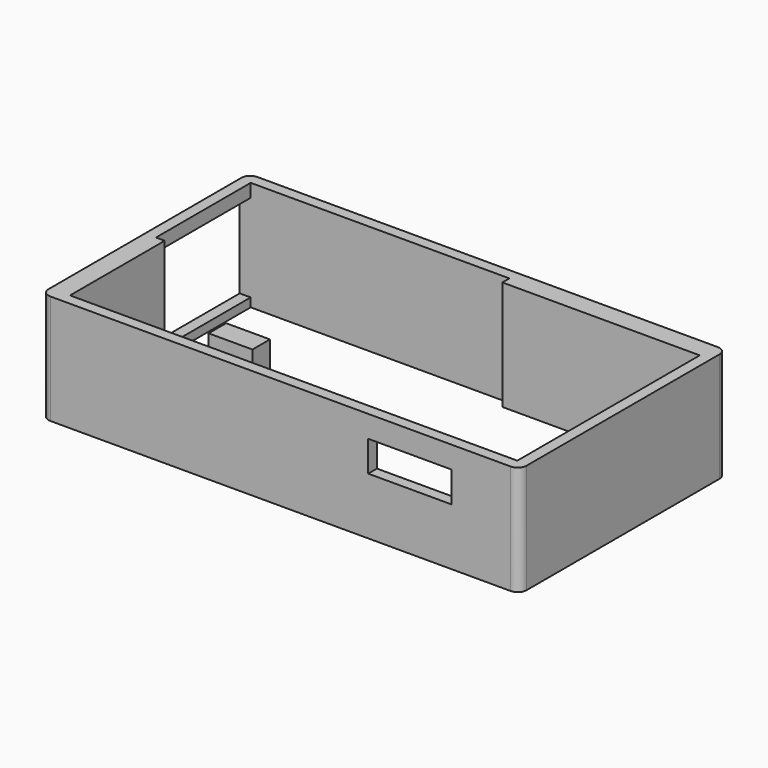
from build123d import *

# Parameters (mm, degrees)
F1_DEPTH  = 25
F2_W      = 19
F2_H      = 7
F3_DEPTH  = 2.5
F0_W      = 45
F0_H      = 2
F5_DEPTH  = 25
F0_W_2    = 2
F0_H_2    = 27
F6_DEPTH  = 25
F4_W      = 10
F4_H      = 5
F7_DEPTH  = 13
F8_W      = 27
F8_H      = 20
F9_DEPTH  = 2.5
F10_DEPTH = 13


with BuildPart() as f1:
    # F0 (on Top) → F1 (new body)
    with BuildSketch(Plane.XY):
        with BuildLine():
            ThreePointArc((0, 2), (0.5857864376, 0.5857864376), (2, 0))
            Line((2, 0), (107, 0))
            ThreePointArc((107, 0), (108.4142135624, 0.5857864376), (109, 2))
            Line((109, 2), (109, 57))
            ThreePointArc((109, 57), (108.4142135624, 58.4142135624), (107, 59))
            Line((107, 59), (2, 59))
            ThreePointArc((2, 59), (0.5857864376, 58.4142135624), (0, 57))
            Line((0, 57), (0, 2))
        make_face()
        Polygon((2.5, 29.5), (2.5, 56.5), (61.5, 56.5), (106.5, 56.5), (106.5, 54.5), (106.5, 2.5), (4.5, 2.5), (2.5, 2.5), align=None, mode=Mode.SUBTRACT)
    extrude(amount=F1_DEPTH)

    # F2 (on face) → F3 (cut)
    with BuildSketch(Plane.XZ):
        with Locations((84, 16.5)):
            Rectangle(F2_W, F2_H)
    extrude(amount=-F3_DEPTH, mode=Mode.SUBTRACT)

    # F0 (on Top) → F5 (join)
    with BuildSketch(Plane.XY):
        with Locations((84, 55.5)):
            Rectangle(F0_W, F0_H)
    extrude(amount=F5_DEPTH)

    # F0 (on Top) → F6 (join)
    with BuildSketch(Plane.XY):
        with Locations((3.5, 16)):
            Rectangle(F0_W_2, F0_H_2)
    extrude(amount=F6_DEPTH)

    # F8 (on face) → F9 (cut)
    with BuildSketch(Plane(origin=(0, 0, 0), x_dir=(0, -1, 0), z_dir=(-1, 0, 0))):
        with Locations((-43, 12)):
            Rectangle(F8_W, F8_H)
    extrude(amount=-F9_DEPTH, mode=Mode.SUBTRACT)


with BuildPart() as f7:
    # F4 (on Top) → F7 (new body)
    with BuildSketch(Plane.XY):
        with Locations((23.5, 27)):
            Rectangle(F4_W, F4_H)
    extrude(amount=F7_DEPTH)

    # F4 (on Top) → F10 (join)
    with BuildSketch(Plane.XY):
        with Locations((23.5, 27)):
            Rectangle(F4_W, F4_H)
    extrude(amount=F10_DEPTH)


solid = Compound([f1.part, f7.part])
